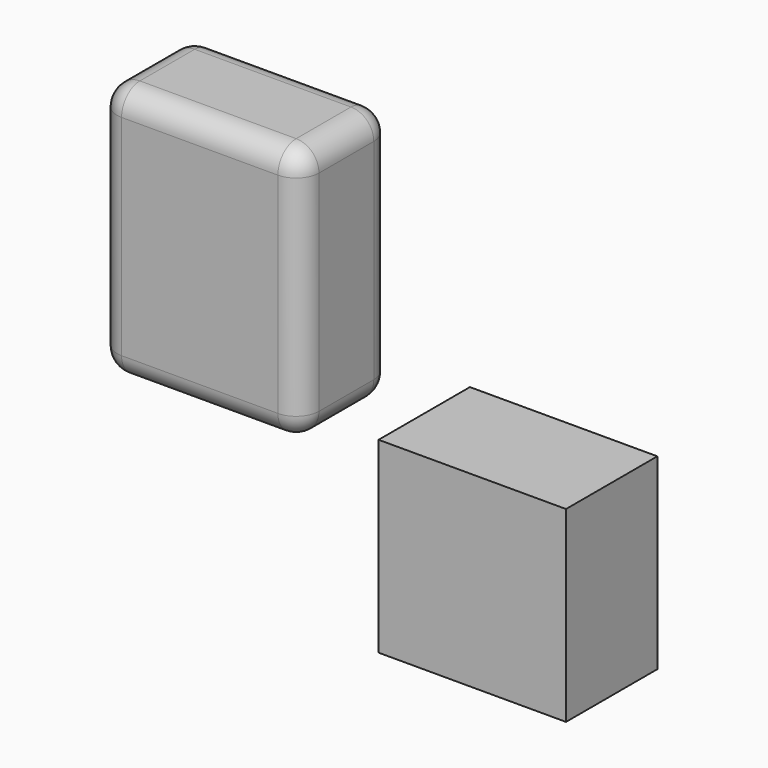
from build123d import *

# Parameters (mm, degrees)
F0_W     = 44.227436
F0_H     = 55.93469
F0_W_2   = 41.04767
F0_H_2   = 41.047674
F1_DEPTH = 25
F2_R     = 5


with BuildPart() as f1:
    # F0 (on Front) → F1 (new body)
    with BuildSketch(Plane.XZ):
        with Locations((-169.104867, 27.967345)):
            Rectangle(F0_W, F0_H)
        with Locations((-109.412294, -13.441665)):
            Rectangle(F0_W_2, F0_H_2)
    extrude(amount=F1_DEPTH)

    # F2
    f2_edges = [f1.edges().sort_by_distance(p)[0] for p in [
        (-169.104867, -25, 55.93469),
        (-191.218585, -25, 27.967345),
        (-169.104867, -25, 0),
        (-146.991149, -25, 27.967345),
        (-169.104867, 0, 55.93469),
        (-191.218585, 0, 27.967345),
        (-169.104867, 0, 0),
        (-146.991149, 0, 27.967345),
        (-146.991149, -12.5, 55.93469),
        (-191.218585, -12.5, 55.93469),
        (-191.218585, -12.5, 0),
        (-146.991149, -12.5, 0),
    ]]
    fillet(f2_edges, radius=F2_R)


solid = f1.part
